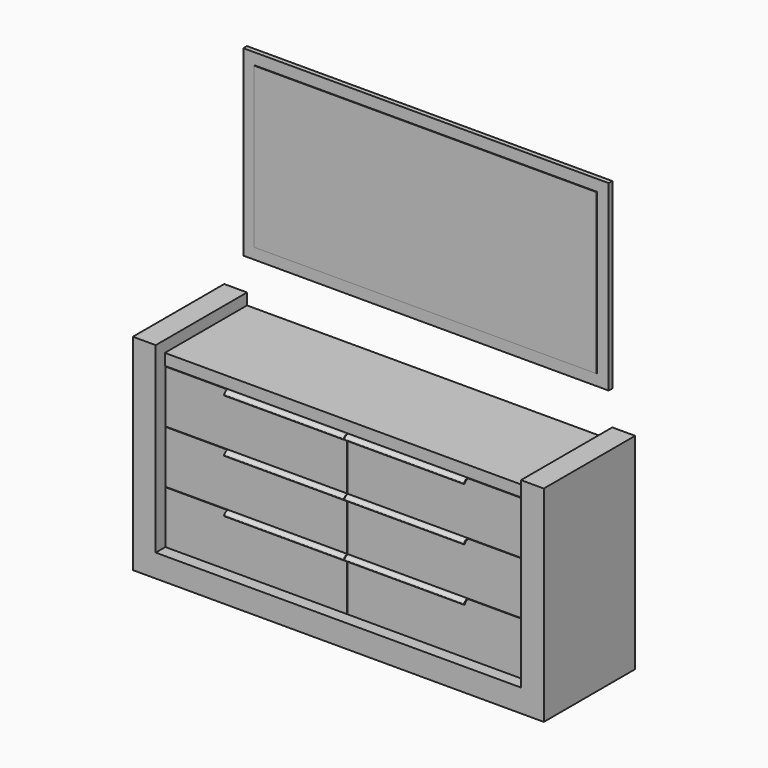
from build123d import *

# Parameters (mm, degrees)
F9_DEPTH  = 500
F8_W      = 1600
F8_H      = 50
F10_DEPTH = 450
F8_H_2    = 700
F8_W_2    = 797
F8_H_3    = 230.6666666667
F11_DEPTH = 50
F12_START = 52
F12_DEPTH = 398
F13_T     = -10
F13_2_T   = -10
F13_3_T   = -10
F13_4_T   = -10
F13_5_T   = -10
F13_6_T   = -10
F14_DEPTH = 25
F16_START = 1
F16_DEPTH = 524.3288918326
F8_H_4    = 800
F8_W_3    = 1500
F18_DEPTH = 20
F19_START = 20
F19_DEPTH = 3


with BuildPart() as f9:
    # F8 (on Front) → F9 (new body)
    with BuildSketch(Plane.XZ):
        Polygon((-900, 900), (-900, 0), (900, 0), (900, 900), (800, 900), (800, 850), (800, 800), (800, 100), (-800, 100), (-800, 800), (-800, 850), (-800, 900), align=None)
    extrude(amount=F9_DEPTH)

    # F8 (on Front) → F10 (join)
    with BuildSketch(Plane.XZ):
        with Locations((0, 825)):
            Rectangle(F8_W, F8_H)
    extrude(amount=F10_DEPTH)

    # F8 (on Front) → F11 (join)
    with BuildSketch(Plane.XZ):
        with Locations((0, 450)):
            Rectangle(F8_W, F8_H_2)
        with Locations((-399.5, 217.3333333333)):
            Rectangle(F8_W_2, F8_H_3, mode=Mode.SUBTRACT)
        with Locations((-399.5, 450)):
            Rectangle(F8_W_2, F8_H_3, mode=Mode.SUBTRACT)
        with Locations((-399.5, 682.6666666667)):
            Rectangle(F8_W_2, F8_H_3, mode=Mode.SUBTRACT)
        with Locations((399.5, 217.3333333333)):
            Rectangle(F8_W_2, F8_H_3, mode=Mode.SUBTRACT)
        with Locations((399.5, 450)):
            Rectangle(F8_W_2, F8_H_3, mode=Mode.SUBTRACT)
        with Locations((399.5, 682.6666666667)):
            Rectangle(F8_W_2, F8_H_3, mode=Mode.SUBTRACT)
        with Locations((-399.5, 682.6666666667)):
            Rectangle(F8_W_2, F8_H_3)
        with Locations((-399.5, 450)):
            Rectangle(F8_W_2, F8_H_3)
        with Locations((-399.5, 217.3333333333)):
            Rectangle(F8_W_2, F8_H_3)
        with Locations((399.5, 682.6666666667)):
            Rectangle(F8_W_2, F8_H_3)
        with Locations((399.5, 450)):
            Rectangle(F8_W_2, F8_H_3)
        with Locations((399.5, 217.3333333333)):
            Rectangle(F8_W_2, F8_H_3)
    extrude(amount=F11_DEPTH)


with BuildPart() as f12:
    # F8 (on Front) → F12 (new body)
    with BuildSketch(Plane.XZ.offset(F12_START)):
        with Locations((-399.5, 682.6666666667)):
            Rectangle(F8_W_2, F8_H_3)
    extrude(amount=F12_DEPTH)

    # F13#2
    f13_2_openings = [f12.faces().sort_by_distance(p)[0] for p in [
        (-399.5, -251, 798),
    ]]
    offset(amount=F13_2_T, openings=f13_2_openings)

    # F14 (add): a face of the model
    f14_faces = [f12.faces().sort_by_distance(p)[0] for p in [
        (-399.5, -440, 687.6666666667),
    ]]
    extrude(f14_faces, amount=F14_DEPTH)


with BuildPart() as f12b:
    # F8 (on Front) → F12, piece 2 (new body)
    with BuildSketch(Plane.XZ.offset(F12_START)):
        with Locations((399.5, 682.6666666667)):
            Rectangle(F8_W_2, F8_H_3)
    extrude(amount=F12_DEPTH)

    # F13
    f13_openings = [f12b.faces().sort_by_distance(p)[0] for p in [
        (399.5, -251, 798),
    ]]
    offset(amount=F13_T, openings=f13_openings)

    # F14#2 (add): a face of the model
    f14_2_faces = [f12b.faces().sort_by_distance(p)[0] for p in [
        (399.5, -440, 687.6666666667),
    ]]
    extrude(f14_2_faces, amount=F14_DEPTH)


with BuildPart() as f12c:
    # F8 (on Front) → F12, piece 3 (new body)
    with BuildSketch(Plane.XZ.offset(F12_START)):
        with Locations((-399.5, 450)):
            Rectangle(F8_W_2, F8_H_3)
    extrude(amount=F12_DEPTH)

    # F13#4
    f13_4_openings = [f12c.faces().sort_by_distance(p)[0] for p in [
        (-399.5, -251, 565.333333),
    ]]
    offset(amount=F13_4_T, openings=f13_4_openings)

    # F14#3 (add): a face of the model
    f14_3_faces = [f12c.faces().sort_by_distance(p)[0] for p in [
        (-399.5, -440, 455),
    ]]
    extrude(f14_3_faces, amount=F14_DEPTH)


with BuildPart() as f12d:
    # F8 (on Front) → F12, piece 4 (new body)
    with BuildSketch(Plane.XZ.offset(F12_START)):
        with Locations((399.5, 450)):
            Rectangle(F8_W_2, F8_H_3)
    extrude(amount=F12_DEPTH)

    # F13#3
    f13_3_openings = [f12d.faces().sort_by_distance(p)[0] for p in [
        (399.5, -251, 565.333333),
    ]]
    offset(amount=F13_3_T, openings=f13_3_openings)

    # F14#4 (add): a face of the model
    f14_4_faces = [f12d.faces().sort_by_distance(p)[0] for p in [
        (399.5, -440, 455),
    ]]
    extrude(f14_4_faces, amount=F14_DEPTH)


with BuildPart() as f12e:
    # F8 (on Front) → F12, piece 5 (new body)
    with BuildSketch(Plane.XZ.offset(F12_START)):
        with Locations((-399.5, 217.3333333333)):
            Rectangle(F8_W_2, F8_H_3)
    extrude(amount=F12_DEPTH)

    # F13#6
    f13_6_openings = [f12e.faces().sort_by_distance(p)[0] for p in [
        (-399.5, -251, 332.666667),
    ]]
    offset(amount=F13_6_T, openings=f13_6_openings)

    # F14#5 (add): a face of the model
    f14_5_faces = [f12e.faces().sort_by_distance(p)[0] for p in [
        (-399.5, -440, 222.3333333333),
    ]]
    extrude(f14_5_faces, amount=F14_DEPTH)


with BuildPart() as f12f:
    # F8 (on Front) → F12, piece 6 (new body)
    with BuildSketch(Plane.XZ.offset(F12_START)):
        with Locations((399.5, 217.3333333333)):
            Rectangle(F8_W_2, F8_H_3)
    extrude(amount=F12_DEPTH)

    # F13#5
    f13_5_openings = [f12f.faces().sort_by_distance(p)[0] for p in [
        (399.5, -251, 332.666667),
    ]]
    offset(amount=F13_5_T, openings=f13_5_openings)

    # F14#6 (add): a face of the model
    f14_6_faces = [f12f.faces().sort_by_distance(p)[0] for p in [
        (399.5, -440, 222.3333333333),
    ]]
    extrude(f14_6_faces, amount=F14_DEPTH)


with BuildPart() as f16:
    # F15 (on Right) → F16 (new body)
    with BuildSketch(Plane.YZ.offset(F16_START)):
        with BuildLine():
            Line((-450, 793), (-450, 798))
            ThreePointArc((-450, 798), (-461.471528727, 794.3830408858), (-468.7938524157, 784.8404028665))
            ThreePointArc((-468.7938524157, 784.8404028665), (-467.2996712221, 781.6361209562), (-464.0953893118, 783.1303021499))
            ThreePointArc((-464.0953893118, 783.1303021499), (-458.6036465453, 790.2872806643), (-450, 793))
        make_face()
    extrude(amount=F16_DEPTH)


with BuildPart() as f16b:
    # F15 (on Right) → F16, piece 2 (new body)
    with BuildSketch(Plane.YZ.offset(F16_START)):
        with BuildLine():
            Line((-450, 560.3333333333), (-450, 565.3333333333))
            ThreePointArc((-450, 565.3333333333), (-461.471528727, 561.7163742191), (-468.7938524157, 552.1737361998))
            ThreePointArc((-468.7938524157, 552.1737361998), (-467.2996712221, 548.9694542896), (-464.0953893118, 550.4636354832))
            ThreePointArc((-464.0953893118, 550.4636354832), (-458.6036465453, 557.6206139977), (-450, 560.3333333333))
        make_face()
    extrude(amount=F16_DEPTH)


with BuildPart() as f16c:
    # F15 (on Right) → F16, piece 3 (new body)
    with BuildSketch(Plane.YZ.offset(F16_START)):
        with BuildLine():
            Line((-450, 327.6666666667), (-450, 332.6666666667))
            ThreePointArc((-450, 332.6666666667), (-461.471528727, 329.0497075524), (-468.7938524157, 319.5070695332))
            ThreePointArc((-468.7938524157, 319.5070695332), (-467.2996712221, 316.3027876229), (-464.0953893118, 317.7969688166))
            ThreePointArc((-464.0953893118, 317.7969688166), (-458.6036465453, 324.953947331), (-450, 327.6666666667))
        make_face()
    extrude(amount=F16_DEPTH)


with BuildPart() as f17_1:
    # F17: instance of F16
    add(f16.part.mirror(Plane.YZ))


with BuildPart() as f17_2:
    # F17: instance of F16b
    add(f16b.part.mirror(Plane.YZ))


with BuildPart() as f17_3:
    # F17: instance of F16c
    add(f16c.part.mirror(Plane.YZ))


with BuildPart() as f18:
    # F8 (on Front) → F18 (new body)
    with BuildSketch(Plane.XZ):
        with Locations((0, 1450)):
            Rectangle(F8_W, F8_H_4)
        with Locations((0, 1450)):
            Rectangle(F8_W_3, F8_H_2, mode=Mode.SUBTRACT)
        with Locations((0, 1450)):
            Rectangle(F8_W_3, F8_H_2)
    extrude(amount=F18_DEPTH)


with BuildPart() as f19:
    # F8 (on Front) → F19 (new body)
    with BuildSketch(Plane.XZ.offset(F19_START)):
        with Locations((0, 1450)):
            Rectangle(F8_W_3, F8_H_2)
    extrude(amount=F19_DEPTH)


solid = Compound([f9.part, f12.part, f12b.part, f12c.part, f12d.part, f12e.part, f12f.part, f16.part, f16b.part, f16c.part, f17_1.part, f17_2.part, f17_3.part, f18.part, f19.part])
